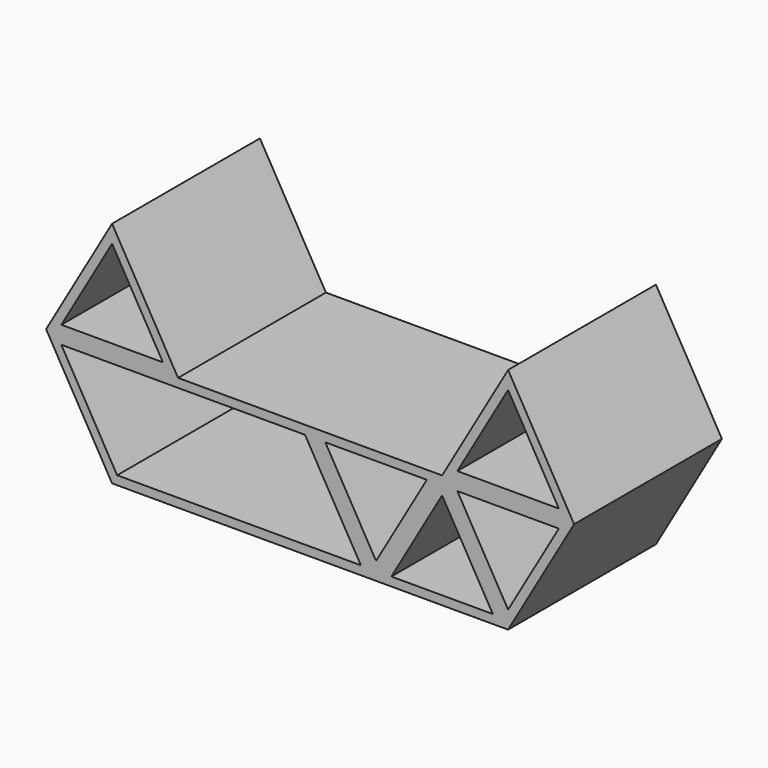
from build123d import *

# Parameters (mm, degrees)
F1_DEPTH = 40
F3_DEPTH = 40
F5_DEPTH = 40
F7_DEPTH = 2


with BuildPart() as f1:
    # F0 (on Front) → F1 (new body)
    with BuildSketch(Plane.XZ):
        Polygon((-30, -33.600594), (-15, -7.619832), (-45, -7.619832), align=None)
        Polygon((-18.464102, -9.619832), (-30, -29.600594), (-41.535898, -9.619832), align=None, mode=Mode.SUBTRACT)
        Polygon((0, -33.600594), (-15, -7.619832), (-30, -33.600594), align=None)
        Polygon((-3.464102, -31.600594), (-26.535898, -31.600594), (-15, -11.619832), align=None, mode=Mode.SUBTRACT)
        Polygon((0, -33.600594), (15, -7.619832), (-15, -7.619832), align=None)
        Polygon((-11.535898, -9.619832), (11.535898, -9.619832), (0, -29.600594), align=None, mode=Mode.SUBTRACT)
        Polygon((-15, -7.619832), (15, -7.619832), (0, 18.360931), align=None)
        Polygon((-11.535898, -5.619832), (0, 14.360931), (11.535898, -5.619832), align=None, mode=Mode.SUBTRACT)
    extrude(amount=F1_DEPTH)

    # F2 (on face) → F3 (join)
    with BuildSketch(Plane.XZ.offset(40)):
        Polygon((-30, -33.600594), (-45, -7.619832), (-75, -7.619832), (-105, -7.619832), (-90, -33.600594), align=None)
        Polygon((-33.464102, -31.600594), (-88.845299, -31.600594), (-101.535898, -9.619832), (-75, -9.619832), (-46.154701, -9.619832), align=None, mode=Mode.SUBTRACT)
    extrude(amount=-F3_DEPTH)

    # F4 (on face) → F5 (join)
    with BuildSketch(Plane.XZ.offset(40)):
        Polygon((-75, -7.619832), (-90, 18.360931), (-105, -7.619832), align=None)
        Polygon((-101.535898, -5.619832), (-90, 14.360931), (-78.464102, -5.619832), (-90, -5.619832), align=None, mode=Mode.SUBTRACT)
    extrude(amount=-F5_DEPTH)

    # F6 (on face) → F7 (join)
    with BuildSketch(Plane(origin=(0, 0, 0), x_dir=(-1, 0, 0), z_dir=(0, 1, 0))):
        Polygon((0, 18.360931), (-15, -7.619832), (0, -33.600594), (90, -33.600594), (105, -7.619832), (90, 18.360931), (75, -7.619832), (15, -7.619832), align=None)
    extrude(amount=F7_DEPTH)


solid = f1.part
